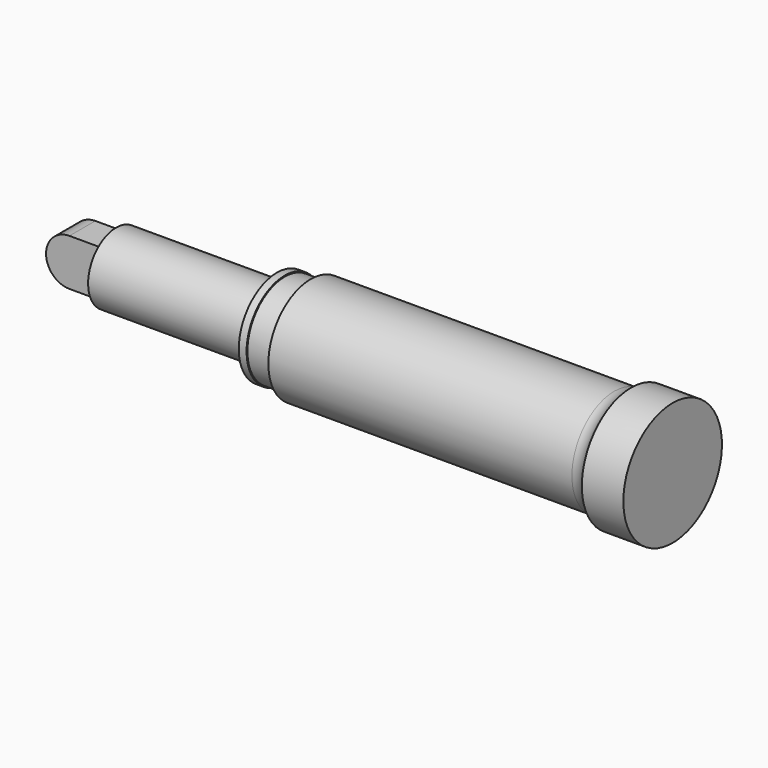
from build123d import *

# Parameters (mm, degrees)
F0_W     = 30
F0_H     = 13.5
F3_DEPTH = 6.25


with BuildPart() as f1:
    # F0 (on Front) → F1 (revolve)
    with BuildSketch(Plane.XZ):
        with BuildLine():
            Line((-13, 18.4), (-13, 13.5))
            Line((-13, 13.5), (17, 13.5))
            Line((17, 13.5), (123.5, 13.5))
            Line((123.5, 13.5), (123.5, 0))
            Line((123.5, 0), (139.5, 0))
            Line((139.5, 0), (139.5, 9))
            Line((139.5, 9), (139.5, 23.75))
            Line((139.5, 23.75), (123.5, 23.75))
            ThreePointArc((123.5, 23.75), (120.6531139996, 21.2964739118), (117, 20.4136895265))
            Line((117, 20.4136895265), (0, 20.4136895265))
            Line((0, 20.4136895265), (0, 18))
            Line((0, 18), (-10, 18))
            Line((-10, 18), (-10, 18.4))
            Line((-10, 18.4), (-13, 18.4))
        make_face()
    revolve(axis=Axis((37, 0, 0), (1, 0, 0)))


with BuildPart() as f2:
    # F0 (on Front) → F2 (revolve)
    with BuildSketch(Plane.XZ):
        Polygon((-75, 0), (-13, 0), (-13, 13.5), (-75, 13.5), (-75, 9), align=None)
        with Locations((2, 6.75)):
            Rectangle(F0_W, F0_H)
    revolve(axis=Axis((37, 0, 0), (1, 0, 0)))

    # F0 (on Front) → F3 (join, symmetric)
    with BuildSketch(Plane.XZ):
        with BuildLine():
            Line((-79, 0), (-75, 0))
            Line((-75, 0), (-75, 9))
            Line((-75, 9), (-88, 9))
            ThreePointArc((-88, 9), (-81.6360389693, 6.3639610307), (-79, 0))
        make_face()
        with BuildLine():
            Line((-75, -9), (-75, 0))
            Line((-75, 0), (-79, 0))
            ThreePointArc((-79, 0), (-81.6360389693, -6.3639610307), (-88, -9))
            Line((-88, -9), (-75, -9))
        make_face()
        with BuildLine():
            ThreePointArc((-88, -9), (-81.6360389693, -6.3639610307), (-79, 0))
            ThreePointArc((-79, 0), (-81.6360389693, 6.3639610307), (-88, 9))
            ThreePointArc((-88, 9), (-97, 0), (-88, -9))
        make_face()
    extrude(amount=F3_DEPTH, both=True)


solid = Compound([f1.part, f2.part])
